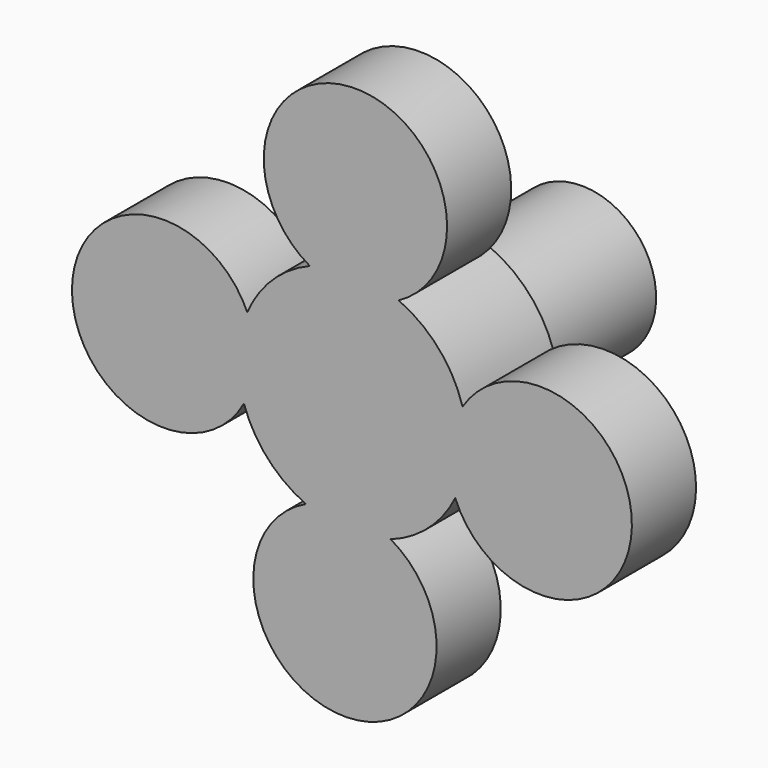
from build123d import *

# Parameters (mm, degrees)
CYLINDER011_R             = 8
CYLINDER011_DEPTH         = 7
CYLINDER012_R             = 8
CYLINDER012_DEPTH         = 7
CYLINDER010_R             = 8
CYLINDER010_DEPTH         = 7
CYLINDER009_R             = 8
CYLINDER009_DEPTH         = 7
CYLINDER005_R             = 6.5
CYLINDER005_DEPTH         = 25
CYLINDER006_R             = 10
CYLINDER006_DEPTH         = 10
FUSION001_ROLL_ANGLE      = 90
FUSION001_PITCH_ANGLE     = -7e-06
FUSION001_PLACEMENT_ANGLE = -179.999993


with BuildPart() as cylinder011:
    # Cylinder011 → Cylinder011 (new body)
    with BuildSketch(Plane(origin=(16.4955, 0.685902, 0), x_dir=(1, 0, 0), z_dir=(0, 0, 1))):
        Circle(CYLINDER011_R)
    extrude(amount=CYLINDER011_DEPTH)


with BuildPart() as cylinder012:
    # Cylinder012 → Cylinder012 (new body)
    with BuildSketch(Plane(origin=(-16.3838, -1.44516, 0), x_dir=(1, 0, 0), z_dir=(0, 0, 1))):
        Circle(CYLINDER012_R)
    extrude(amount=CYLINDER012_DEPTH)


with BuildPart() as cylinder010:
    # Cylinder010 → Cylinder010 (new body)
    with BuildSketch(Plane(origin=(0.664718, -16.3626, 0), x_dir=(1, 0, 0), z_dir=(0, 0, 1))):
        Circle(CYLINDER010_R)
    extrude(amount=CYLINDER010_DEPTH)


with BuildPart() as cylinder009:
    # Cylinder009 → Cylinder009 (new body)
    with BuildSketch(Plane(origin=(-0.248596, 16.2122, 0), x_dir=(1, 0, 0), z_dir=(0, 0, 1))):
        Circle(CYLINDER009_R)
    extrude(amount=CYLINDER009_DEPTH)


with BuildPart() as cylinder005:
    # Cylinder005 → Cylinder005 (new body)
    with BuildSketch(Plane.XY):
        Circle(CYLINDER005_R)
    extrude(amount=CYLINDER005_DEPTH)


with BuildPart() as fusion001:
    # Cylinder006 → Cylinder006 (new body)
    with BuildSketch(Plane.XY):
        Circle(CYLINDER006_R)
    extrude(amount=CYLINDER006_DEPTH)

    # Fusion001: union Cylinder011, Cylinder012, Cylinder010, Cylinder009, Cylinder005
    add(cylinder011.part)
    add(cylinder012.part)
    add(cylinder010.part)
    add(cylinder009.part)
    add(cylinder005.part)


with BuildPart() as fusion001_1:
    # Fusion001 roll: moved
    add(fusion001.part.rotate(Axis((0, 0, 0), (1, 0, 0)), FUSION001_ROLL_ANGLE))


with BuildPart() as fusion001_2:
    # Fusion001 pitch: moved
    add(fusion001_1.part.rotate(Axis((0, 0, 0), (0, 1, 0)), FUSION001_PITCH_ANGLE))


with BuildPart() as fusion001_3:
    # Fusion001 placement: moved
    add(fusion001_2.part.moved(Location((22.3, -76, -12))).rotate(Axis((22.3, -76, -12), (0, 0, 1)), FUSION001_PLACEMENT_ANGLE))


solid = fusion001_3.part
